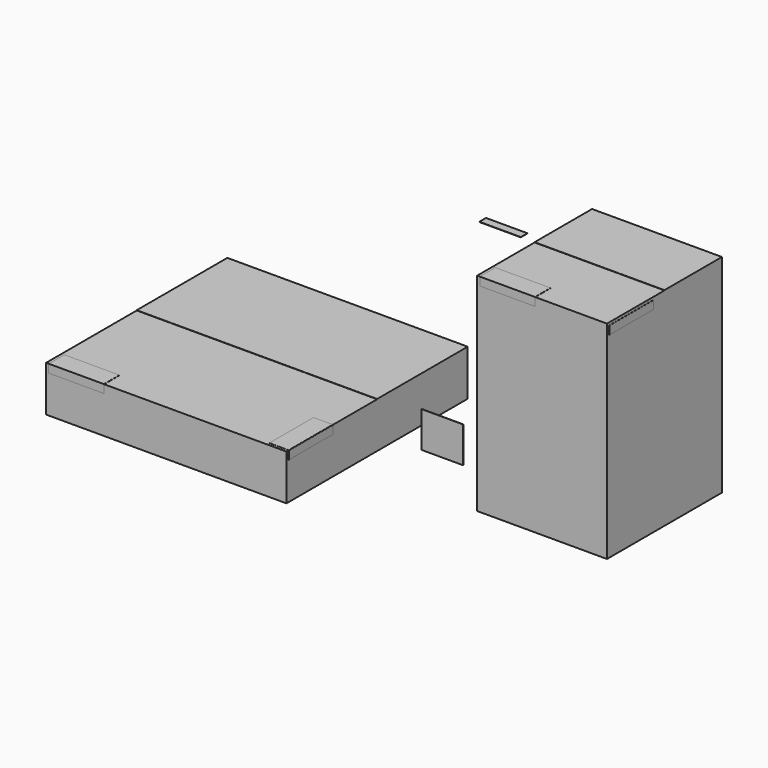
from build123d import *

# Parameters (mm, degrees)
F0_W      = 870
F0_H      = 820
F1_DEPTH  = 165
F0_W_2    = 470
F0_H_2    = 520
F2_DEPTH  = 750
F0_W_3    = 150
F0_H_3    = 130
F3_DEPTH  = 1
F0_H_4    = 30
F6_ANGLE  = 90
F9_ANGLE  = 270
F11_ANGLE = 270
F13_W     = 470
F13_H     = 260
F14_DEPTH = 1
F13_W_2   = 150
F13_H_2   = 30
F15_W     = 150
F15_H     = 130
F16_DEPTH = 1
F17_W     = 200
F17_H     = 70
F18_DEPTH = 0.5
F17_W_2   = 70
F17_H_2   = 200
F19_W     = 200
F19_H     = 29.5
F19_H_2   = 0.5
F20_DEPTH = 0.5
F21_W     = 200
F21_H     = 70
F22_DEPTH = 0.5
F23_W     = 200
F23_H     = 29.5
F23_H_2   = 0.5
F24_DEPTH = 0.5
F25_W     = 200
F25_H     = 30
F26_DEPTH = 0.5
F27_W     = 200
F27_H     = 30
F28_DEPTH = 0.5
F29_W     = 870
F29_H     = 410
F30_DEPTH = 1


with BuildPart() as f1:
    # F0 (on Top) → F1 (new body)
    with BuildSketch(Plane.XY):
        with Locations((210.6679260731, 370.3745266795)):
            Rectangle(F0_W, F0_H)
    extrude(amount=F1_DEPTH)


with BuildPart() as f2:
    # F0 (on Top) → F2 (new body)
    with BuildSketch(Plane.XY):
        with Locations((1330.6679260731, 520.3745266795)):
            Rectangle(F0_W_2, F0_H_2)
    extrude(amount=F2_DEPTH)


with BuildPart() as f3:
    # F0 (on Top) → F3 (new body)
    with BuildSketch(Plane.XY):
        with Locations((-149.3320739269, 1045.3745266795)):
            Rectangle(F0_W_3, F0_H_3)
    extrude(amount=F3_DEPTH)


with BuildPart() as f3b:
    # F0 (on Top) → F3, piece 2 (new body)
    with BuildSketch(Plane.XY):
        with Locations((-149.3320739269, 895.3745266795)):
            Rectangle(F0_W_3, F0_H_4)
    extrude(amount=F3_DEPTH)


with BuildPart() as f3_1:
    # F4: moved
    add(f3.part.moved(Location((10, -445, 60))))


with BuildPart() as f5_1:
    # F5: copy of F3
    add(f3_1.part.moved(Location((1110, -15, 210))))


with BuildPart() as f3b_1:
    # F6: moved
    add(f3b.part.rotate(Axis((-149.3320739269, 880.3745266795, 0), (1, 0, 0)), F6_ANGLE))


with BuildPart() as f3b_2:
    # F7: moved
    add(f3b_1.part.moved(Location((10, -355, 20))))


with BuildPart() as f8_1:
    # F8: copy of F3b
    add(f3b_2.part.moved(Location((1110, -15, 210))))


with BuildPart() as f9_1:
    # F9: copy of F3b
    add(f3b_2.part.rotate(Axis((-64.3320739269, 525.3745266795, 35), (0, 0, 1)), F9_ANGLE))


with BuildPart() as f9_1_1:
    # F10: moved
    add(f9_1.part.moved(Location((501, 10, 0))))


with BuildPart() as f11_1:
    # F11: copy of F8_1
    add(f8_1.part.rotate(Axis((1045.6679260731, 510.3745266795, 245), (0, 0, 1)), F11_ANGLE))


with BuildPart() as f11_1_1:
    # F12: moved
    add(f11_1.part.moved(Location((461, 10, 0))))


with BuildPart() as f14:
    # F13 (on face) → F14 (new body)
    with BuildSketch(Plane.XY.offset(750)):
        with Locations((1330.6679260731, 650.3745266795)):
            Rectangle(F13_W, F13_H)
    extrude(amount=F14_DEPTH)


with BuildPart() as f14b:
    # F13 (on face) → F14, piece 2 (new body)
    with BuildSketch(Plane.XY.offset(750)):
        with Locations((970.6679260731, 535.3745266795)):
            Rectangle(F13_W_2, F13_H_2)
    extrude(amount=F14_DEPTH)


with BuildPart() as f16:
    # F15 (on face) → F16 (new body)
    with BuildSketch(Plane.XZ.offset(-260.3745266795)):
        with Locations((970.6679260731, 195)):
            Rectangle(F15_W, F15_H)
    extrude(amount=F16_DEPTH)


with BuildPart() as f18:
    # F17 (on face) → F18 (new body)
    with BuildSketch(Plane.XY.offset(165)):
        with Locations((-114.3320739269, -4.6254733205)):
            Rectangle(F17_W, F17_H)
    extrude(amount=F18_DEPTH)


with BuildPart() as f18b:
    # F17 (on face) → F18, piece 2 (new body)
    with BuildSketch(Plane.XY.offset(165)):
        with Locations((610.6679260731, 70.3745266795)):
            Rectangle(F17_W_2, F17_H_2)
    extrude(amount=F18_DEPTH)


with BuildPart() as f20:
    # F19 (on face) → F20 (new body)
    with BuildSketch(Plane.XZ.offset(39.6254733205)):
        with Locations((-114.3320739269, 150.25)):
            Rectangle(F19_W, F19_H)
        with Locations((-114.3320739269, 165.25)):
            Rectangle(F19_W, F19_H_2)
    extrude(amount=F20_DEPTH)


with BuildPart() as f22:
    # F21 (on face) → F22 (new body)
    with BuildSketch(Plane.XY.offset(750)):
        with Locations((1205.6679260731, 295.3745266795)):
            Rectangle(F21_W, F21_H)
    extrude(amount=F22_DEPTH)


with BuildPart() as f24:
    # F23 (on face) → F24 (new body)
    with BuildSketch(Plane.XZ.offset(-260.3745266795)):
        with Locations((1205.6679260731, 735.25)):
            Rectangle(F23_W, F23_H)
        with Locations((1205.6679260731, 750.25)):
            Rectangle(F23_W, F23_H_2)
    extrude(amount=F24_DEPTH)


with BuildPart() as f26:
    # F25 (on face) → F26 (new body)
    with BuildSketch(Plane.YZ.offset(645.6679260731)):
        with Locations((70.3745266795, 150)):
            Rectangle(F25_W, F25_H)
    extrude(amount=F26_DEPTH)


with BuildPart() as f28:
    # F27 (on face) → F28 (new body)
    with BuildSketch(Plane.YZ.offset(1565.6679260731)):
        with Locations((370.3745266795, 725)):
            Rectangle(F27_W, F27_H)
    extrude(amount=F28_DEPTH)


with BuildPart() as f30:
    # F29 (on face) → F30 (new body)
    with BuildSketch(Plane.XY.offset(165)):
        with Locations((210.6679260731, 575.3745266795)):
            Rectangle(F29_W, F29_H)
    extrude(amount=F30_DEPTH)


solid = Compound([f1.part, f2.part, f3_1.part, f5_1.part, f3b_2.part, f8_1.part, f9_1_1.part, f11_1_1.part, f14.part, f14b.part, f16.part, f18.part, f18b.part, f20.part, f22.part, f24.part, f26.part, f28.part, f30.part])
